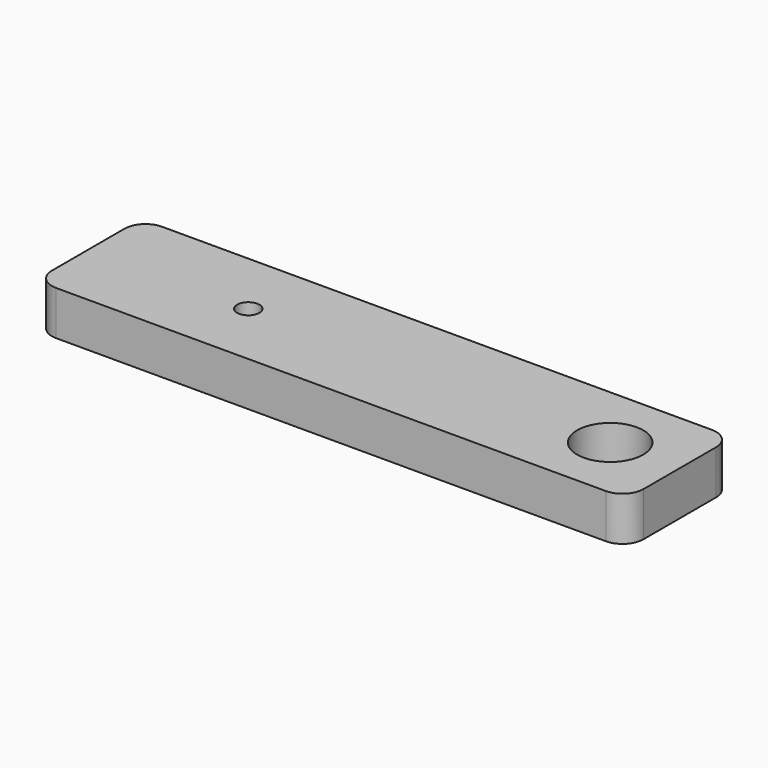
from build123d import *

# Parameters (mm, degrees)
F0_R     = 1.6
F0_R_2   = 4.75
F1_DEPTH = 6.35
F2_R     = 1.5
F3_DEPTH = 5


with BuildPart() as f1:
    # F0 (on Top) → F1 (new body)
    with BuildSketch(Plane.XY):
        with BuildLine():
            ThreePointArc((42.5, 6.525), (41.62132, 8.64632), (39.5, 9.525))
            Line((39.5, 9.525), (-39.5, 9.525))
            ThreePointArc((-39.5, 9.525), (-41.62132, 8.64632), (-42.5, 6.525))
            Line((-42.5, 6.525), (-42.5, -6.525))
            ThreePointArc((-42.5, -6.525), (-41.62132, -8.64632), (-39.5, -9.525))
            Line((-39.5, -9.525), (39.5, -9.525))
            ThreePointArc((39.5, -9.525), (41.62132, -8.64632), (42.5, -6.525))
            Line((42.5, -6.525), (42.5, 6.525))
        make_face()
        with Locations((-19.5, 0)):
            Circle(F0_R, mode=Mode.SUBTRACT)
        with Locations((32.5, 0)):
            Circle(F0_R_2, mode=Mode.SUBTRACT)
    extrude(amount=F1_DEPTH)

    # F2 (on face) → F3 (cut)
    with BuildSketch(Plane(origin=(0, 9.525, 0), x_dir=(-1, 0, 0), z_dir=(0, 1, 0))):
        with Locations((25.5, 3.175)):
            Circle(F2_R)
        with Locations((-25.5, 3.175)):
            Circle(F2_R)
    extrude(amount=-F3_DEPTH, mode=Mode.SUBTRACT)


solid = f1.part
